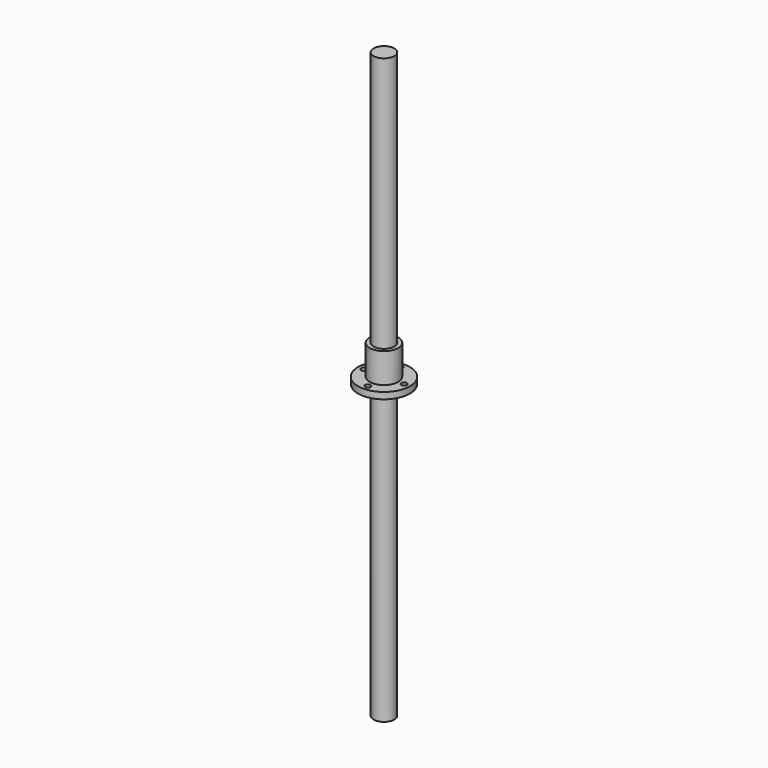
from build123d import *

# Parameters (mm, degrees)
F3_D          = 16
F4_D          = 4.3
F5_R          = 8
F6_DEPTH      = 225
F6_DEPTH_BACK = 225


with BuildPart() as f1:
    # F0 (on Front) → F1 (revolve)
    with BuildSketch(Plane.XZ):
        Polygon((-20, 0), (0, 0), (0, 28), (-11, 28), (-11, 5), (-20, 5), align=None)
    revolve(axis=Axis((0, 0, 14), (0, 0, -1)))

    # F3 (through all)
    with Locations(Plane(origin=(0, 0, 0), x_dir=(1, 0, 0), z_dir=(0, 0, -1))):
        with Locations((0, 0)):
            Hole(F3_D / 2)

    # F4 (through all)
    with Locations(Plane(origin=(0, 0, 0), x_dir=(1, 0, 0), z_dir=(0, 0, -1))):
        with Locations((0, 15.5), (15.5, 0), (0, -15.5), (-15.5, 0)):
            Hole(F4_D / 2)


with BuildPart() as f6:
    # F5 (on face) → F6 (new body, two sides)
    with BuildSketch(Plane(origin=(0, 0, 0), x_dir=(1, 0, 0), z_dir=(0, 0, -1))) as f6_sk:
        Circle(F5_R)
    extrude(amount=F6_DEPTH)
    extrude(f6_sk.sketch, amount=-F6_DEPTH_BACK)


solid = Compound([f1.part, f6.part])
